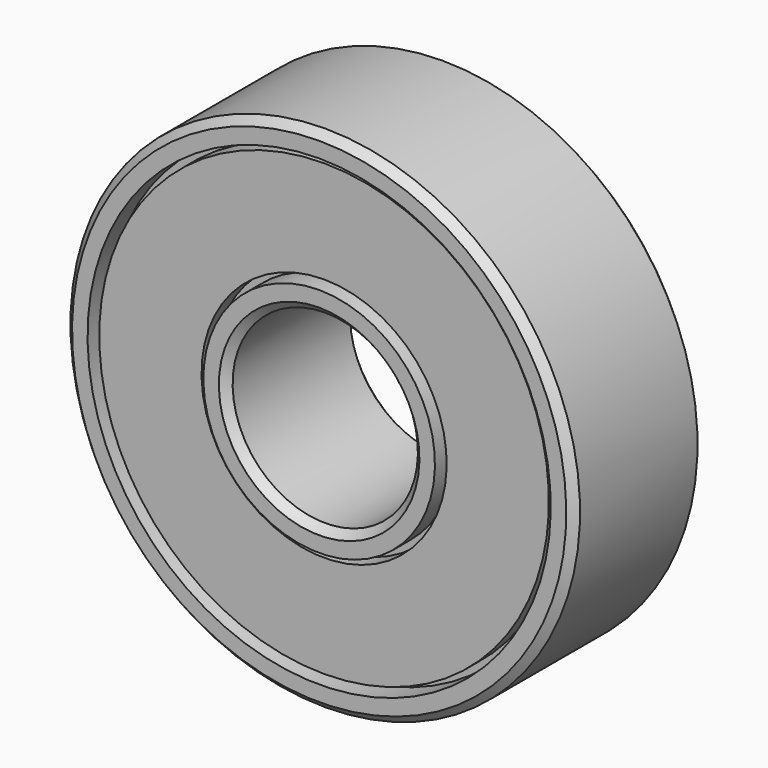
from build123d import *

# Parameters (mm, degrees)
F1_W    = 0.7335389405
F1_H    = 1.5485889072
F1_H_2  = 1.3186813187
F3_SIZE = 0.33


with BuildPart() as f2:
    # F1 (on Right) → F2 (revolve)
    with BuildSketch(Plane.YZ):
        with BuildLine():
            Line((3.5, 10), (3.5, 11))
            Line((3.5, 11), (0, 11))
            Line((0, 11), (0, 9.1895215866))
            ThreePointArc((0, 9.1895215866), (0.9328753707, 8.9086258319), (1.5555555556, 8.1593406593))
            Line((1.5555555556, 8.1593406593), (2.5, 8.1593406593))
            Line((2.5, 8.1593406593), (2.5, 9.7079295665))
            Line((2.5, 9.7079295665), (2.5, 10))
            Line((2.5, 10), (3.2335389405, 10))
            Line((3.2335389405, 10), (3.5, 10))
        make_face()
        with BuildLine():
            Line((2.5, 5.2920704335), (2.5, 6.8406593407))
            Line((2.5, 6.8406593407), (1.5555555556, 6.8406593407))
            ThreePointArc((1.5555555556, 6.8406593407), (0.9328753707, 6.0913741681), (0, 5.8104784134))
            Line((0, 5.8104784134), (0, 4))
            Line((0, 4), (3.5, 4))
            Line((3.5, 4), (3.5, 5))
            Line((3.5, 5), (3.2335389405, 5))
            Line((3.2335389405, 5), (2.5, 5))
            Line((2.5, 5), (2.5, 5.2920704335))
        make_face()
        with BuildLine():
            Line((-1.5555555556, 6.8406593407), (-2.5, 6.8406593407))
            Line((-2.5, 6.8406593407), (-2.5, 5.2920704335))
            Line((-2.5, 5.2920704335), (-2.5, 5))
            Line((-2.5, 5), (-3.2335389405, 5))
            Line((-3.2335389405, 5), (-3.5, 5))
            Line((-3.5, 5), (-3.5, 4))
            Line((-3.5, 4), (0, 4))
            Line((0, 4), (0, 5.8104784134))
            ThreePointArc((0, 5.8104784134), (-0.9328753707, 6.0913741681), (-1.5555555556, 6.8406593407))
        make_face()
        with BuildLine():
            Line((0, 9.1895215866), (0, 11))
            Line((0, 11), (-3.5, 11))
            Line((-3.5, 11), (-3.5, 10))
            Line((-3.5, 10), (-3.2335389405, 10))
            Line((-3.2335389405, 10), (-2.5, 10))
            Line((-2.5, 10), (-2.5, 9.7079295665))
            Line((-2.5, 9.7079295665), (-2.5, 8.1593406593))
            Line((-2.5, 8.1593406593), (-1.5555555556, 8.1593406593))
            ThreePointArc((-1.5555555556, 8.1593406593), (-0.9328753707, 8.9086258319), (0, 9.1895215866))
        make_face()
        with Locations((2.8667694703, 8.9336351129)):
            Rectangle(F1_W, F1_H)
        with Locations((2.8667694703, 7.5)):
            Rectangle(F1_W, F1_H_2)
        with Locations((2.8667694703, 6.0663648871)):
            Rectangle(F1_W, F1_H)
        with Locations((-2.8667694703, 8.9336351129)):
            Rectangle(F1_W, F1_H)
        with Locations((-2.8667694703, 6.0663648871)):
            Rectangle(F1_W, F1_H)
        with Locations((-2.8667694703, 7.5)):
            Rectangle(F1_W, F1_H_2)
    revolve(axis=Axis((0, 0, 0), (0, -1, 0)))

    # F3
    f3_edges = [f2.edges().sort_by_distance(p)[0] for p in [
        (0, -3.5, -4),
        (0, 3.5, -4),
        (0, 0, 4),
        (0, 3.5, -11),
        (0, -3.5, -11),
        (0, 0, 11),
    ]]
    chamfer(f3_edges, length=F3_SIZE)


with BuildPart() as f2_1:
    # F4: moved
    add(f2.part)


solid = f2_1.part
